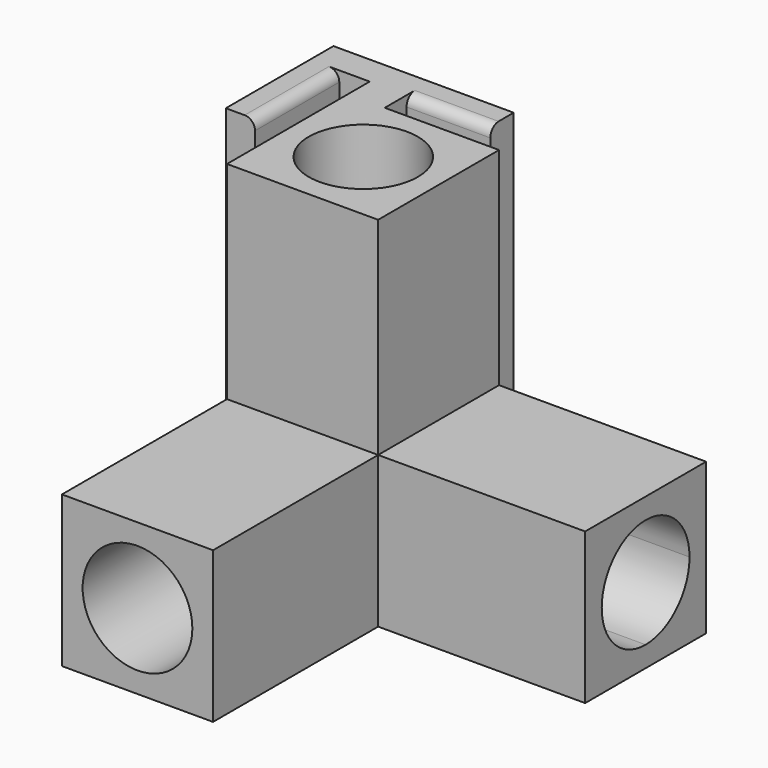
from build123d import *

# Parameters (mm, degrees)
F0_W      = 27
F0_H      = 15.9
F0_W_2    = 15.9
F0_H_2    = 27
F0_W_3    = 3
F0_H_3    = 3
F1_DEPTH  = 21.9
F2_DEPTH  = 51.8
F3_R      = 7.95
F6_DEPTH  = 30
F7_DEPTH  = 30
F4_R      = 7.9
F8_DEPTH  = 30
F10_W     = 4.4081552195
F10_H     = 4.2303893715
F11_DEPTH = 51.9
F13_DEPTH = 6.3
F14_W     = 19.4965768605
F14_H     = 3
F15_DEPTH = 26.1180568486
F16_R     = 1.5


with BuildPart() as f1:
    # F0 (on Front) → F1 (new body)
    with BuildSketch(Plane.XZ):
        with BuildLine():
            Line((-34.3576915575, 15.9), (-42.3076915575, 15.9))
            Line((-42.3076915575, 15.9), (-42.3076915575, 7.9499999931))
            ThreePointArc((-42.3076915575, 7.9499999931), (-39.9791904704, 13.571498908), (-34.3576915575, 15.9))
        make_face()
        with BuildLine():
            ThreePointArc((-34.3576915575, 15.9), (-39.9791904704, 13.571498908), (-42.3076915575, 7.9499999931))
            ThreePointArc((-42.3076915575, 7.9499999931), (-39.9791904655, 2.3285010871), (-34.3576915575, 0))
            ThreePointArc((-34.3576915575, 0), (-28.7361926471, 2.3285010896), (-26.4076915575, 7.95))
            ThreePointArc((-26.4076915575, 7.95), (-28.7361926471, 13.5714989104), (-34.3576915575, 15.9))
        make_face()
        Polygon((-42.3076915575, 18.9), (-42.3076915575, 45.9), (-26.4076915575, 45.9), (-26.4076915575, 18.9), (-23.4076915575, 18.9), (-23.4076915575, 48.9), (-45.3076915575, 48.9), (-45.3076915575, 18.9), align=None)
        with Locations((-9.9076915575, 7.95)):
            Rectangle(F0_W, F0_H)
        with Locations((-34.3576915575, 32.4)):
            Rectangle(F0_W_2, F0_H_2)
        with BuildLine():
            ThreePointArc((-34.3576915575, 0), (-39.9791904655, 2.3285010871), (-42.3076915575, 7.9499999931))
            Line((-42.3076915575, 7.9499999931), (-42.3076915575, 0))
            Line((-42.3076915575, 0), (-34.3576915575, 0))
        make_face()
        with BuildLine():
            Line((-26.4076915575, 0), (-26.4076915575, 7.95))
            ThreePointArc((-26.4076915575, 7.95), (-28.7361926471, 2.3285010896), (-34.3576915575, 0))
            Line((-34.3576915575, 0), (-26.4076915575, 0))
        make_face()
        with BuildLine():
            Line((-26.4076915575, 7.95), (-26.4076915575, 15.9))
            Line((-26.4076915575, 15.9), (-34.3576915575, 15.9))
            ThreePointArc((-34.3576915575, 15.9), (-28.7361926471, 13.5714989104), (-26.4076915575, 7.95))
        make_face()
        Polygon((6.5923084425, 18.9), (-23.4076915575, 18.9), (-23.4076915575, 15.9), (3.5923084425, 15.9), (3.5923084425, 0), (-23.4076915575, 0), (-23.4076915575, -3), (6.5923084425, -3), align=None)
        Polygon((-26.4076915575, 18.9), (-42.3076915575, 18.9), (-42.3076915575, 15.9), (-34.3576915575, 15.9), (-26.4076915575, 15.9), align=None)
        Polygon((-23.4076915575, 15.9), (-26.4076915575, 15.9), (-26.4076915575, 7.95), (-26.4076915575, 0), (-23.4076915575, 0), align=None)
        Polygon((-42.3076915575, 15.9), (-42.3076915575, 18.9), (-45.3076915575, 18.9), (-45.3076915575, -3), (-23.4076915575, -3), (-23.4076915575, 0), (-26.4076915575, 0), (-34.3576915575, 0), (-42.3076915575, 0), (-42.3076915575, 7.9499999931), align=None)
        with Locations((-24.9076915575, 17.4)):
            Rectangle(F0_W_3, F0_H_3)
    extrude(amount=F1_DEPTH)

    # F0 (on Front) → F2 (join)
    with BuildSketch(Plane.XZ):
        Polygon((-42.3076915575, 15.9), (-42.3076915575, 18.9), (-45.3076915575, 18.9), (-45.3076915575, -3), (-23.4076915575, -3), (-23.4076915575, 0), (-26.4076915575, 0), (-34.3576915575, 0), (-42.3076915575, 0), (-42.3076915575, 7.9499999931), align=None)
        with BuildLine():
            ThreePointArc((-34.3576915575, 15.9), (-39.9791904704, 13.571498908), (-42.3076915575, 7.9499999931))
            ThreePointArc((-42.3076915575, 7.9499999931), (-39.9791904655, 2.3285010871), (-34.3576915575, 0))
            ThreePointArc((-34.3576915575, 0), (-28.7361926471, 2.3285010896), (-26.4076915575, 7.95))
            ThreePointArc((-26.4076915575, 7.95), (-28.7361926471, 13.5714989104), (-34.3576915575, 15.9))
        make_face()
        Polygon((-26.4076915575, 18.9), (-42.3076915575, 18.9), (-42.3076915575, 15.9), (-34.3576915575, 15.9), (-26.4076915575, 15.9), align=None)
        Polygon((-23.4076915575, 15.9), (-26.4076915575, 15.9), (-26.4076915575, 7.95), (-26.4076915575, 0), (-23.4076915575, 0), align=None)
        with Locations((-24.9076915575, 17.4)):
            Rectangle(F0_W_3, F0_H_3)
        with BuildLine():
            Line((-26.4076915575, 7.95), (-26.4076915575, 15.9))
            Line((-26.4076915575, 15.9), (-34.3576915575, 15.9))
            ThreePointArc((-34.3576915575, 15.9), (-28.7361926471, 13.5714989104), (-26.4076915575, 7.95))
        make_face()
        with BuildLine():
            Line((-34.3576915575, 15.9), (-42.3076915575, 15.9))
            Line((-42.3076915575, 15.9), (-42.3076915575, 7.9499999931))
            ThreePointArc((-42.3076915575, 7.9499999931), (-39.9791904704, 13.571498908), (-34.3576915575, 15.9))
        make_face()
        with BuildLine():
            ThreePointArc((-34.3576915575, 0), (-39.9791904655, 2.3285010871), (-42.3076915575, 7.9499999931))
            Line((-42.3076915575, 7.9499999931), (-42.3076915575, 0))
            Line((-42.3076915575, 0), (-34.3576915575, 0))
        make_face()
        with BuildLine():
            Line((-26.4076915575, 0), (-26.4076915575, 7.95))
            ThreePointArc((-26.4076915575, 7.95), (-28.7361926471, 2.3285010896), (-34.3576915575, 0))
            Line((-34.3576915575, 0), (-26.4076915575, 0))
        make_face()
    extrude(amount=F2_DEPTH)

    # F3 (on face) → F6 (cut)
    with BuildSketch(Plane.XZ.offset(51.8)):
        with Locations((-34.3576915575, 7.95)):
            Circle(F3_R)
    extrude(amount=-F6_DEPTH, mode=Mode.SUBTRACT)

    # F5 (on face) → F7 (cut)
    with BuildSketch(Plane.YZ.offset(6.5923084425)):
        with BuildLine():
            ThreePointArc((-3, 7.95), (-5.3285010896, 13.5714989104), (-10.95, 15.9))
            ThreePointArc((-10.95, 15.9), (-16.5714989104, 13.5714989104), (-18.9, 7.95))
            ThreePointArc((-18.9, 7.95), (-16.5714989104, 2.3285010896), (-10.95, 0))
            ThreePointArc((-10.95, 0), (-5.3285010896, 2.3285010896), (-3, 7.95))
        make_face()
    extrude(amount=-F7_DEPTH, mode=Mode.SUBTRACT)

    # F4 (on face) → F8 (cut)
    with BuildSketch(Plane.XY.offset(48.9)):
        with Locations((-34.3576915575, -10.9)):
            Circle(F4_R)
    extrude(amount=-F8_DEPTH, mode=Mode.SUBTRACT)

    # F10 (on face) → F11 (join)
    with BuildSketch(Plane.XY.offset(48.9)):
        Polygon((-49.715846777, -11.3178612664), (-49.715846777, 3.9483262226), (-49.715846777, 8.1787155941), (-53.9462342858, 8.1787155941), (-53.9462342858, -11.3178612664), align=None)
        with Locations((-47.5117691672, 6.0635209084)):
            Rectangle(F10_W, F10_H)
        Polygon((-45.3076915575, 3.9483262226), (-45.3076915575, 0), (-39.9675555527, 0), (-39.9675555527, 3.9483262226), (-27.8281774372, 3.9483262226), (-27.8281774372, 8.1787155941), (-45.3076915575, 8.1787155941), align=None)
    extrude(amount=-F11_DEPTH)

    # F12 (on face) → F13 (join)
    with BuildSketch(Plane(origin=(0, 0, -3), x_dir=(1, 0, 0), z_dir=(0, 0, -1))):
        Polygon((-49.715846777, -8.1787155941), (-49.715846777, -3.9483262226), (-49.715846777, 11.3178612664), (-53.9462342858, 11.3178612664), (-53.9462342858, -8.1787155941), align=None)
    extrude(amount=F13_DEPTH)

    # F14 (on face) → F15 (join, through all)
    with BuildSketch(Plane(origin=(-53.9462342858, 0, 0), x_dir=(0, -1, 0), z_dir=(-1, 0, 0))):
        with Locations((1.5695728362, -7.8)):
            Rectangle(F14_W, F14_H)
    extrude(amount=-F15_DEPTH)

    # F16
    f16_edges = [f1.edges().sort_by_distance(p)[0] for p in [
        (-38.772012, 8.178716, -6.3),
        (-38.772012, 8.178716, -3),
        (-33.897866, 3.948326, 48.9),
        (-49.715847, -3.684768, 48.9),
        (-49.715847, 8.178716, -4.65),
    ]]
    fillet(f16_edges, radius=F16_R)


solid = f1.part
